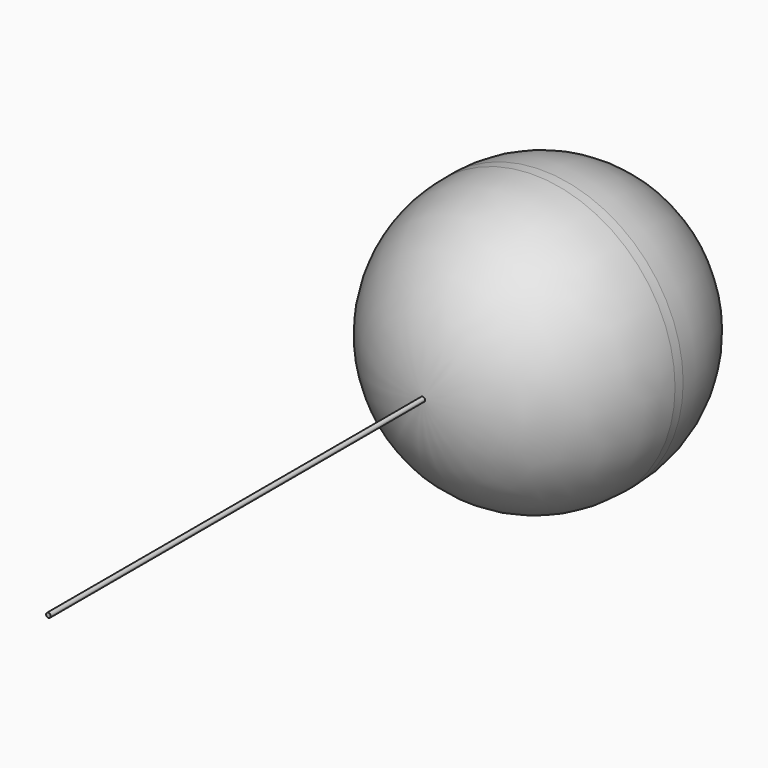
from build123d import *

# Parameters (mm, degrees)
F0_R      = 74.741234
F1_DEPTH  = 76.2
F2_R      = 73.515954
F1_FACE_R = 1.22528
F3_DEPTH  = 247.674868


with BuildPart() as f1:
    # F0 (on Front) → F1 (new body, symmetric)
    with BuildSketch(Plane.XZ):
        Circle(F0_R)
    extrude(amount=F1_DEPTH, both=True)

    # F2
    f2_edges = [f1.edges().sort_by_distance(p)[0] for p in [
        (-74.741234, 76.2, 0),
        (74.741234, 0, 0),
        (-74.741234, -76.2, 0),
    ]]
    fillet(f2_edges, radius=F2_R)

    # F1_face (on face) → F3 (join)
    with BuildSketch(Plane.XZ.offset(76.2)):
        Circle(F1_FACE_R)
    extrude(amount=F3_DEPTH)


solid = f1.part
